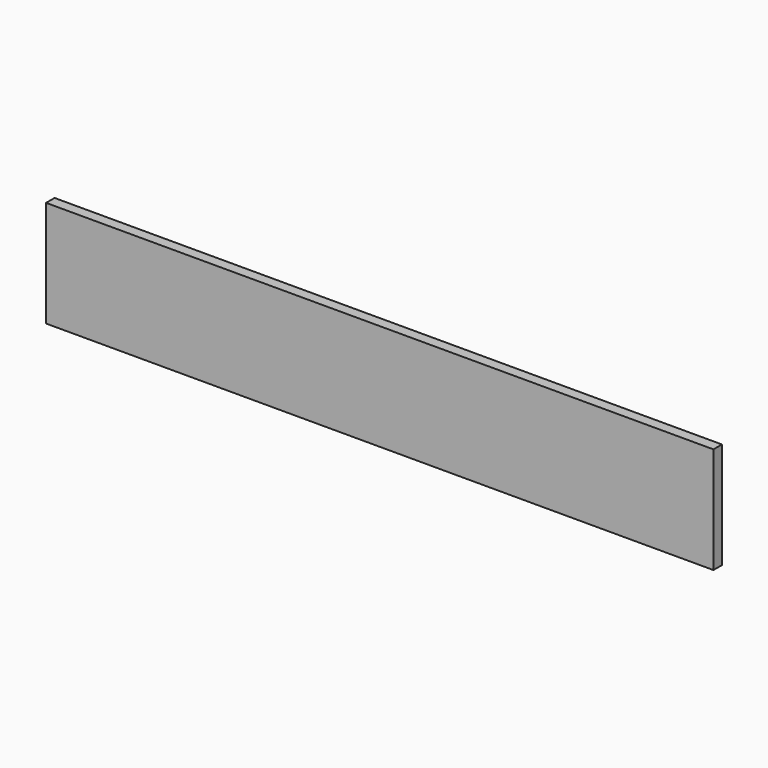
from build123d import *

# Parameters (mm, degrees)
F0_W     = 12.7
F0_H     = 25.4
F0_H_2   = 12.7
F0_H_3   = 50.8
F1_DEPTH = 5.08


with BuildPart() as f1:
    # F0 (on Front) → F1 (new body)
    with BuildSketch(Plane.XZ):
        Polygon((218.42395, 12.7), (-75.20005, 12.7), (-75.20005, 0), (-75.20005, -12.7), (-75.20005, -38.1), (218.42395, -38.1), align=None)
        with Locations((-81.55005, -25.4)):
            Rectangle(F0_W, F0_H)
        with Locations((-81.55005, -6.35)):
            Rectangle(F0_W, F0_H_2)
        with Locations((-81.55005, 6.35)):
            Rectangle(F0_W, F0_H_2)
        with Locations((224.77395, -12.7)):
            Rectangle(F0_W, F0_H_3)
    extrude(amount=F1_DEPTH)


solid = f1.part
